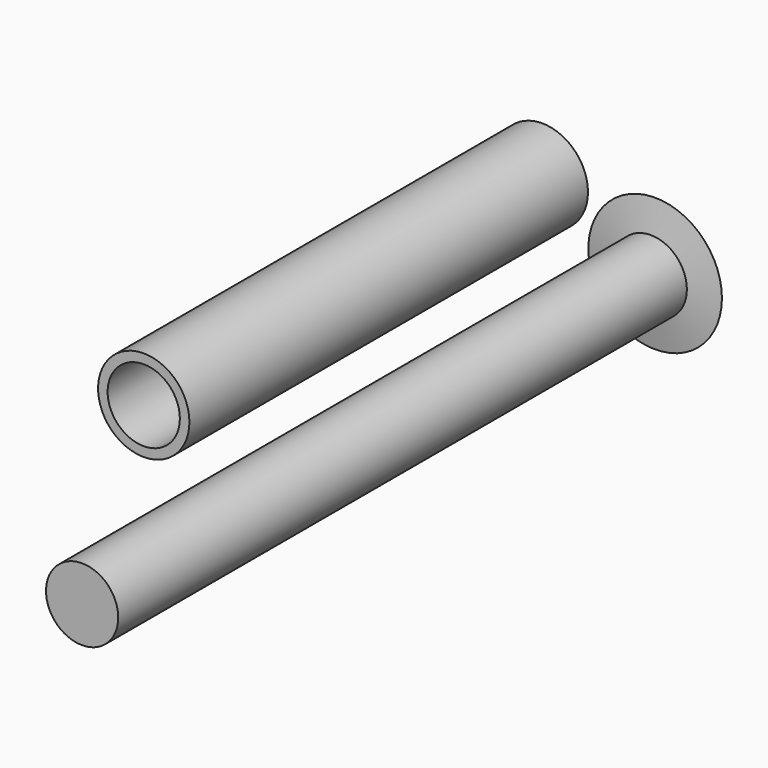
from build123d import *

# Parameters (mm, degrees)
F0_R     = 32.1344290403
F0_R_2   = 25.4
F1_DEPTH = 350.52
F2_DEPTH = 500.126
F3_DEPTH = 3.81
F3_TAPER = -80


with BuildPart() as f1:
    # F0 (on Front) → F1 (new body)
    with BuildSketch(Plane.XZ):
        with Locations((-43.7574572861, 20.9883153439)):
            Circle(F0_R)
        with Locations((-43.7574572861, 20.9883153439)):
            Circle(F0_R_2, mode=Mode.SUBTRACT)
    extrude(amount=F1_DEPTH)


with BuildPart() as f2:
    # F0 (on Front) → F2 (new body)
    with BuildSketch(Plane.XZ):
        with Locations((32.5636900961, -16.6634507477)):
            Circle(F0_R_2)
    extrude(amount=F2_DEPTH)


with BuildPart() as f3:
    # F0 (on Front) → F3 (new body)
    with BuildSketch(Plane.XZ):
        with Locations((32.5636900961, -16.6634507477)):
            Circle(F0_R_2)
    extrude(amount=-F3_DEPTH, taper=F3_TAPER)


solid = Compound([f1.part, f2.part, f3.part])
